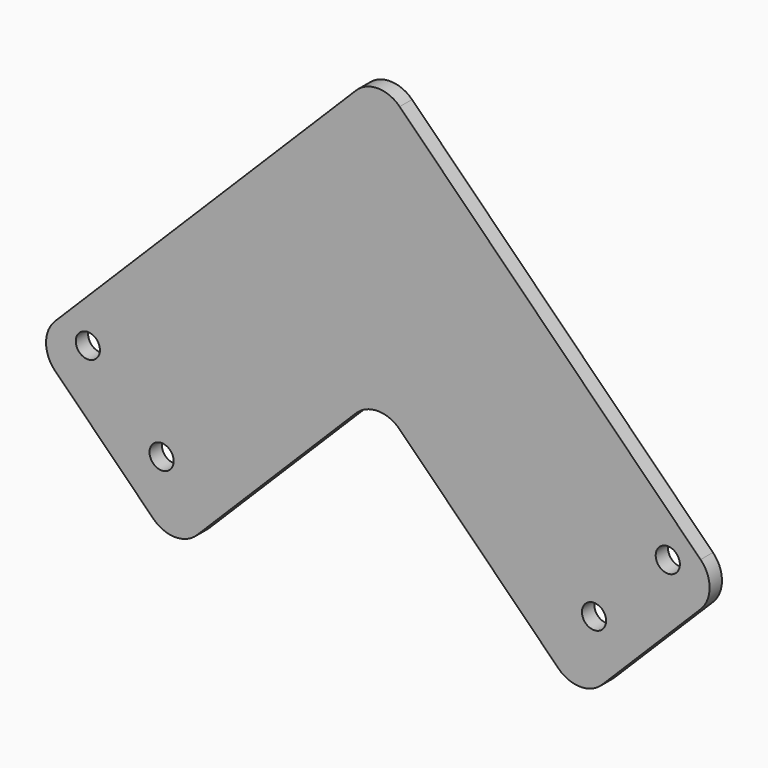
from build123d import *

# Parameters (mm, degrees)
F0_R     = 4.9657
F1_DEPTH = 3.175
F2_R     = 12.7


with BuildPart() as f1:
    # F0 (on Front) → F1 (new body, symmetric)
    with BuildSketch(Plane.XZ):
        Polygon((-83.226920908, -83.226920908), (0, 0), (0, 4.1710244843), (0, 116.7433295739), (-141.598585695, -24.8552561211), align=None)
        with Locations((-88.8395809837, -50.6734924691)):
            Circle(F0_R, mode=Mode.SUBTRACT)
        with Locations((-119.1479453923, -20.3651280605)):
            Circle(F0_R, mode=Mode.SUBTRACT)
        Polygon((0, 4.1710244843), (0, 0), (83.226920908, -83.226920908), (141.598585695, -24.8552561211), (0, 116.7433295739), align=None)
        with Locations((88.8395809837, -50.6734924691)):
            Circle(F0_R, mode=Mode.SUBTRACT)
        with Locations((119.1479453923, -20.3651280605)):
            Circle(F0_R, mode=Mode.SUBTRACT)
    extrude(amount=F1_DEPTH, both=True)

    # F2
    f2_edges = [f1.edges().sort_by_distance(p)[0] for p in [
        (-141.598586, 0, -24.855256),
        (0, 0, 116.74333),
        (0, 0, 0),
        (83.226921, 0, -83.226921),
        (141.598586, 0, -24.855256),
        (-83.226921, 0, -83.226921),
    ]]
    fillet(f2_edges, radius=F2_R)


solid = f1.part
